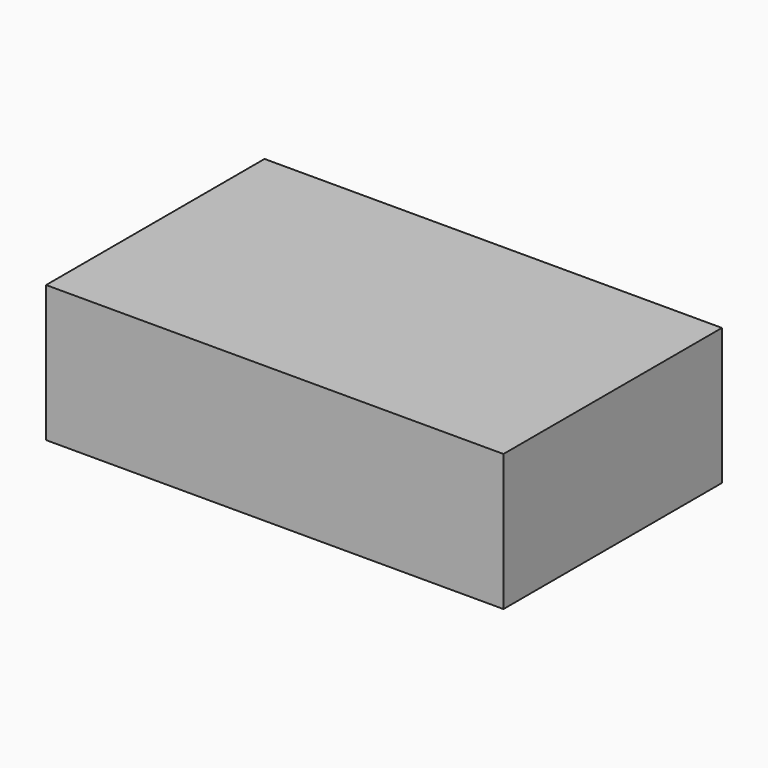
from build123d import *

# Parameters (mm, degrees)
F0_W     = 67
F0_H     = 57
F1_DEPTH = 40
F2_W     = 63
F2_H     = 36
F3_DEPTH = 55
F4_DEPTH = 56.9
F5_W     = 141.291812
F5_H     = 94.46678
F6_DEPTH = 20
F7_W     = 154.631503
F7_H     = 78.676945
F8_DEPTH = 17


with BuildPart() as f1:
    # F0 (on Front) → F1 (new body)
    with BuildSketch(Plane.XZ):
        with Locations((33.5, 28.5)):
            Rectangle(F0_W, F0_H)
    extrude(amount=F1_DEPTH)

    # F2 (on face) → F3 (cut)
    with BuildSketch(Plane(origin=(0, 0, 0), x_dir=(1, 0, 0), z_dir=(0, 0, -1))):
        with Locations((33.5, 20)):
            Rectangle(F2_W, F2_H)
    extrude(amount=-F3_DEPTH, mode=Mode.SUBTRACT)

    # F2 (on face) → F4 (cut)
    with BuildSketch(Plane(origin=(0, 0, 0), x_dir=(1, 0, 0), z_dir=(0, 0, -1))):
        with Locations((33.5, 20)):
            Rectangle(F2_W, F2_H)
    extrude(amount=-F4_DEPTH, mode=Mode.SUBTRACT)

    # F5 (on face) → F6 (cut)
    with BuildSketch(Plane(origin=(0, 0, 0), x_dir=(1, 0, 0), z_dir=(0, 0, -1))):
        with Locations((35.67791, 20.544475)):
            Rectangle(F5_W, F5_H)
    extrude(amount=-F6_DEPTH, mode=Mode.SUBTRACT)

    # F7 (on face) → F8 (cut)
    with BuildSketch(Plane(origin=(0, 0, 20), x_dir=(1, 0, 0), z_dir=(0, 0, -1))):
        with Locations((45.614618, 17.277614)):
            Rectangle(F7_W, F7_H)
    extrude(amount=-F8_DEPTH, mode=Mode.SUBTRACT)


solid = f1.part
